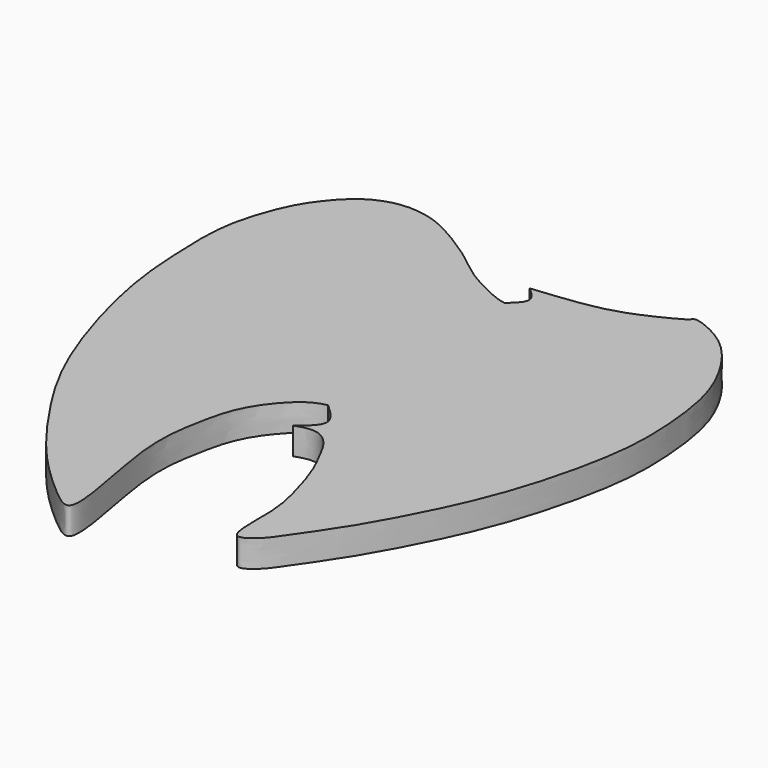
from build123d import *

# Parameters (mm, degrees)
F2_DEPTH = 75
F3_DEPTH = 75


with BuildPart() as f2:
    # F0 (on Top) → F2 (new body)
    with BuildSketch(Plane.XY):
        with BuildLine():
            add(Edge.make_bspline(
                [(131.964340806, -83.234205842), (112.4538179303, -72.6751942263), (73.885742882, -51.802316804), (6.6573498636, -58.2141301705), (-46.4500485441, -87.8764421769), (-125.7671283838, -184.7009892826), (-150.753615895, -312.3758108425), (-176.5027036894, -463.2075093139), (-81.9456959989, -821.4126293537), (-189.6099517072, -740.4886502482), (-314.0159435827, -624.6397739889), (-433.218377131, -459.6482344116), (-564.0125904776, -251.6722391321), (-669.9347276011, 101.2110734438), (-680.0971148701, 309.8933685202), (-684.623487114, 464.8610065534), (-633.8892927829, 612.9442668309), (-589.0316859487, 680.1379113439), (-530.4831886517, 746.0433494352), (-445.9428756901, 779.6145410921), (-355.0177935995, 771.0310110749), (-270.0585967672, 728.5553661642), (-170.6298828838, 662.440048789), (-120.1161795657, 615.3442727908), (-25.9684608204, 567.6027983822), (37.9641117324, 542.8716075743), (198.1576285988, 556.9305593796), (199.2047280073, 557.3984384537)],
                knots=[0, 0, 0, 0, 0.0284473785, 0.0562343017, 0.0833554414, 0.1218422025, 0.1608429216, 0.2080108985, 0.268200819, 0.2954073655, 0.3428264366, 0.3928116183, 0.4484804628, 0.5159415127, 0.5669113925, 0.6104524856, 0.6536826005, 0.6853450241, 0.7176649222, 0.7506548505, 0.7835002115, 0.8181411331, 0.8561854202, 0.8860663083, 0.9204959736, 0.9537537051, 0.9959928607, 0.9959928607, 0.9959928607, 0.9959928607], degree=3))
            Line((131.964340806, -83.234205842), (199.2047280073, 557.3984384537))
        make_face()
    extrude(amount=F2_DEPTH)

    # F1 (on Top) → F3 (join)
    with BuildSketch(Plane.XY):
        with BuildLine():
            add(Edge.make_bspline(
                [(21.7786151916, -180.4992258549), (45.3003568106, -161.9415694179), (93.2947537815, -124.0760259428), (45.9301399978, -80.8342282837), (21.7786151916, -58.7849542499)],
                knots=[0, 0, 0, 0, 0.4900934922, 1, 1, 1, 1], degree=3))
            add(Edge.make_bspline(
                [(21.7786151916, -180.4992258549), (31.2222558615, -177.2879187469), (50.9015697622, -170.5959741021), (89.3621517005, -169.5033895879), (128.4094116449, -202.0526555629), (156.3968814778, -258.858654579), (188.8164116545, -319.6990727343), (226.1285735268, -443.8866176084), (240.3894674181, -530.7085325997), (231.2640191741, -681.5596012107), (295.2267779567, -642.8167081608), (330.0615725395, -593.96734621), (399.4234817804, -493.0324326547), (451.6935825017, -406.9120486777), (551.113629486, -215.1607208755), (615.577981555, -19.691129658), (652.6698182286, 163.3624028905), (657.0150289474, 287.5477368073), (644.5556818748, 427.3078052831), (615.723904699, 541.5703928589), (543.9989786181, 664.0431548537), (466.3552314687, 729.1406287211), (389.2240786804, 757.8258506854), (382.7784583141, 742.9975025386), (341.0077761174, 719.8448377409), (266.4166670863, 684.6625269007), (178.8171755833, 657.5172915552), (77.6544977528, 647.4854801197), (19.9452415109, 641.7627334595)],
                knots=[0, 0, 0, 0, 0.0220214693, 0.0458898661, 0.0734351689, 0.104752901, 0.1383532975, 0.182741534, 0.2236979432, 0.2665344642, 0.2920417616, 0.324383823, 0.3676201747, 0.4084708447, 0.4663798887, 0.5250056875, 0.5788675544, 0.6234317756, 0.6700015203, 0.7136793644, 0.7604947422, 0.8020837916, 0.8352216866, 0.8481187852, 0.8745867491, 0.9110794569, 0.9492743913, 1, 1, 1, 1], degree=3))
            add(Edge.make_bspline(
                [(19.9452415109, 641.7627334595), (36.4795456937, 627.2638153579), (69.2805505297, 598.5006404759), (37.5262389063, 569.8553262139), (21.7786151916, 555.6495189667)],
                knots=[0, 0, 0, 0, 0.5040791971, 1, 1, 1, 1], degree=3))
            Line((21.7786151916, 555.6495189667), (21.7786151916, -58.7849542499))
        make_face()
    extrude(amount=F3_DEPTH)


solid = f2.part
